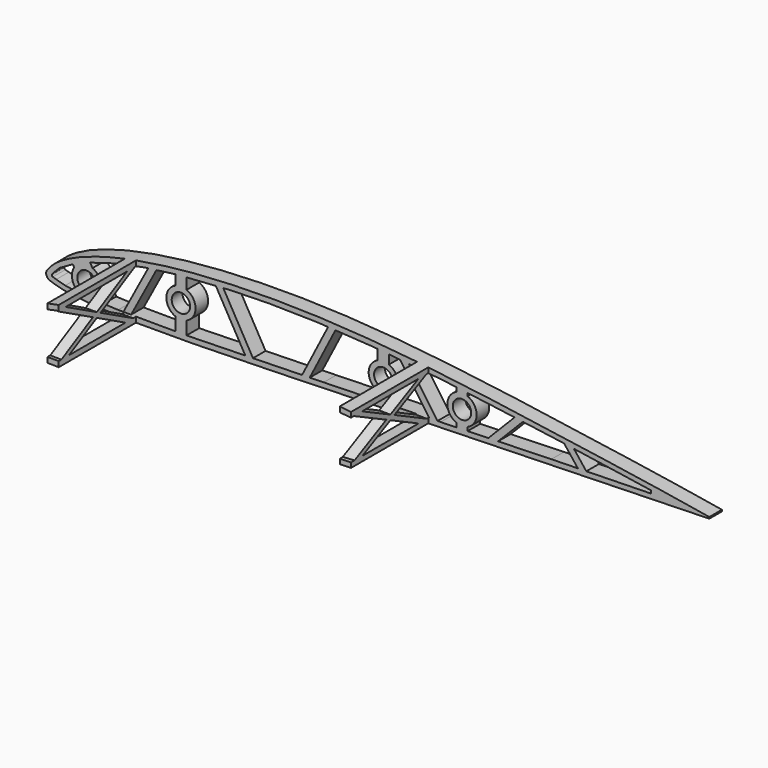
from build123d import *

# Parameters (mm, degrees)
PAD_DEPTH       = 49.95
POCKET002_DEPTH = 49.95
SKETCH007_W     = 89.545105
SKETCH007_H     = 96.443817
POCKET003_DEPTH = 2.5
SKETCH167_W     = 45
SKETCH167_H     = 60
SKETCH167_W_2   = 125
SKETCH167_W_3   = 130
POCKET097_DEPTH = 50
SKETCH008_R     = 4.1
PAD068_DEPTH    = 7
PAD069_DEPTH    = 5
PAD070_DEPTH    = 5
CHAMFER_SIZE    = 1


with BuildPart() as part:
    # Sketch003 → Pad (new body)
    with BuildSketch(Plane.XZ):
        with BuildLine():
            add(Edge.make_bspline(
                [(299.999063, 0.026825), (299.662766, 0.037193), (298.339429, 0.190401), (295.439956, 0.589669), (290.775356, 1.337839), (284.500044, 2.393262), (276.735212, 3.66473), (267.577355, 5.083019), (257.136483, 6.653879), (245.549215, 8.381993), (232.975291, 10.222771), (219.590016, 12.153256), (205.573823, 14.115503), (191.111579, 16.055183), (176.381713, 17.897983), (161.544489, 19.553409), (146.739309, 20.940939), (132.087536, 21.99009), (117.705275, 22.664279), (103.703346, 22.961168), (90.192549, 22.858072), (77.284675, 22.375726), (65.094168, 21.544938), (53.730431, 20.369385), (43.29002, 18.857963), (33.852484, 17.043697), (25.485501, 14.967735), (18.252292, 12.67281), (12.179436, 10.224412), (7.338355, 7.689021), (3.623023, 5.152403), (1.3546, 2.748114), (-0.314638, 0.590402), (0.575789, -1.804065), (3.482069, -2.72942), (7.386052, -3.91761), (13.030922, -4.754284), (20.096342, -5.463024), (28.645402, -5.933379), (38.56853, -6.201185), (49.790194, -6.284208), (62.196701, -6.193111), (75.660953, -5.967607), (90.034637, -5.629522), (105.153445, -5.226063), (120.83724, -4.775199), (136.895942, -4.296045), (153.13493, -3.818601), (169.356828, -3.345106), (185.36574, -2.889379), (200.968742, -2.465331), (215.974941, -2.074889), (230.201502, -1.715375), (243.47905, -1.394255), (255.639348, -1.103787), (266.55871, -0.849968), (276.034544, -0.603524), (284.209012, -0.340437), (290.324953, -0.117215), (295.955653, 0.018504), (297.364702, 0.013759), (300.343856, 0.01512), (300.000055, 0.026794), (299.999063, 0.026825)],
                knots=[0, 0, 0, 0, 1.017748, 3.99659, 8.779341, 15.189917, 23.087031, 32.383824, 42.990765, 54.76218, 67.530065, 81.114584, 95.333435, 109.988542, 124.889458, 139.866624, 154.774633, 169.496697, 183.930349, 197.964304, 211.506735, 224.45797, 236.709214, 248.156653, 258.723012, 268.346769, 276.97692, 284.567784, 291.102108, 296.573756, 300.992679, 304.39163, 306.761357, 308.43213, 311.131254, 315.298227, 320.951765, 328.080828, 336.654655, 346.609821, 357.866231, 370.316475, 383.83025, 398.264023, 413.449345, 429.202773, 445.334827, 461.646891, 477.940787, 494.021253, 509.693044, 524.767168, 539.054704, 552.387642, 564.607107, 575.560217, 585.109622, 593.180747, 599.700326, 604.53767, 607.540683, 608.560842, 608.563842, 608.563842, 608.563842, 608.563842], degree=3))
        make_face()
    extrude(amount=PAD_DEPTH)

    # Sketch006 (on Face3 of Pad) → Pocket002 (cut)
    with BuildSketch(Plane.XZ.offset(49.95)):
        with BuildLine():
            Line((2.713263, 0.775372), (3.386703, 1.523026))
            Line((3.386703, 1.523026), (5.993214, 4.179621))
            Line((5.993214, 4.179621), (11.230826, 7.180706))
            Line((11.230826, 7.180706), (18.928726, 10.492708))
            Line((18.928726, 10.492708), (30.015602, 13.804502))
            Line((30.015602, 13.804502), (43.705284, 16.658491))
            Line((43.705284, 16.658491), (58.37534, 18.58366))
            Line((58.37534, 18.58366), (81.932846, 20.199753))
            Line((81.932846, 20.199753), (99.115959, 20.581533))
            Line((99.115959, 20.581533), (120.506348, 20.199753))
            Line((120.506348, 20.199753), (145.772324, 18.655943))
            Line((145.772324, 18.655943), (175.747543, 15.772772))
            Line((175.747543, 15.772772), (200.435547, 12.569891))
            Line((200.435547, 12.569891), (229.384109, 8.602522))
            Line((229.384109, 8.602522), (252.135086, 5.213018))
            Line((252.135086, 5.213018), (269.069916, 2.671427))
            Line((269.069916, 2.671427), (269.069916, 1.39956))
            Line((269.069916, 1.39956), (224.761032, 0.436598))
            Line((224.761032, 0.436598), (175.486649, -1.027315))
            Line((175.486649, -1.027315), (123.47789, -2.412929))
            Line((123.47789, -2.412929), (62.077515, -3.876549))
            Line((62.077515, -3.876549), (32.052879, -3.760909))
            Line((32.052879, -3.760909), (18.887957, -3.18288))
            Line((18.887957, -3.18288), (12.728564, -2.489715))
            Line((12.728564, -2.489715), (8.493419, -1.872198))
            Line((8.493419, -1.872198), (4.562357, -0.768246))
            Line((4.562357, -0.768246), (3.013953, -0.301296))
            ThreePointArc((2.713263, 0.775372), (2.567567, 0.15436), (3.013953, -0.301296))
        make_face()
    extrude(amount=-POCKET002_DEPTH, mode=Mode.SUBTRACT)

    # Sketch007 → Pocket003 (cut, symmetric)
    with BuildSketch(Plane.XY):
        with Locations((339.772552, -30.852761)):
            Rectangle(SKETCH007_W, SKETCH007_H)
    extrude(amount=POCKET003_DEPTH, both=True, mode=Mode.SUBTRACT)

    # Sketch167 → Pocket097 (cut, symmetric)
    with BuildSketch(Plane.XY):
        with Locations((12.5, -37)):
            Rectangle(SKETCH167_W, SKETCH167_H)
        with Locations((102.5, -37)):
            Rectangle(SKETCH167_W_2, SKETCH167_H)
        with Locations((235, -37)):
            Rectangle(SKETCH167_W_3, SKETCH167_H)
    extrude(amount=POCKET097_DEPTH, both=True, mode=Mode.SUBTRACT)

    # Sketch008 (on Face16 of Pocket097) → Pad068 (join)
    with BuildSketch(Plane.XZ.offset(7)):
        Polygon((45.883972, 17.721869), (33.929979, -4.654965), (37.331221, -4.654965), (49.864502, 18.806244), align=None)
        with BuildLine():
            ThreePointArc((12.49229, 6.45183), (11.877033, 0.818423), (15.915785, -3.156789))
            Line((15.915785, -3.156789), (16.615922, -4.582716))
            Line((16.615922, -4.582716), (26.093039, -4.582716))
            Line((23.927186, 0.331954), (26.093039, -4.582716))
            ThreePointArc((23.927186, 0.331954), (24.083233, 5.290038), (20.696327, 8.914374))
            Line((20.696327, 8.914374), (19.191151, 11.361285))
            Line((11.725203, 8.211095), (19.191151, 11.361285))
            Line((12.49229, 6.45183), (11.725203, 8.211095))
        make_face()
        with Locations((18, 3)):
            Circle(SKETCH008_R, mode=Mode.SUBTRACT)
        Polygon((74.837349, 20.968384), (89.206329, -4.249731), (92.659144, -4.249731), (78.184032, 21.154647), align=None)
        Polygon((113.371621, -3.617416), (125.992361, 20.986459), (129.33754, 20.934824), (116.743287, -3.617416), align=None)
        Polygon((156.489991, 19.012594), (171.223801, -2.187052), (175.064011, -2.455857), (160.385949, 18.663577), align=None)
        Polygon((195.991472, -1.145031), (209.190294, 12.320477), (213.439896, 12.370226), (200.19231, -1.145031), align=None)
        Polygon((229.837707, 9.194464), (237.095519, 0), (240.917549, 0), (234.226173, 8.476883), align=None)
        with BuildLine():
            ThreePointArc((57.5, 14), (53.5, 8), (57.5, 2))
            Line((57.5, 2), (57.5, -4.905906))
            Line((57.5, -4.905906), (62.5, -4.905906))
            Line((62.5, -4.905906), (62.5, 2))
            ThreePointArc((62.5, 2), (66.5, 8), (62.5, 14))
            Line((62.5, 14), (62.5, 20.034189))
            Line((62.5, 20.034189), (57.5, 19.556065))
            Line((57.5, 14), (57.5, 19.556065))
        make_face()
        with Locations((60, 8)):
            Circle(SKETCH008_R, mode=Mode.SUBTRACT)
        with BuildLine():
            ThreePointArc((147.5, 14), (143.5, 8), (147.5, 2))
            Line((147.5, 2), (147.5, -2.562403))
            Line((147.5, -2.562403), (152.5, -2.562403))
            Line((152.5, -2.562403), (152.5, 2))
            ThreePointArc((152.5, 2), (156.5, 8), (152.5, 14))
            Line((152.5, 18.960966), (152.5, 14))
            Line((147.5, 19.241402), (152.5, 18.960966))
            Line((147.5, 14), (147.5, 19.241402))
        make_face()
        with Locations((150, 8)):
            Circle(SKETCH008_R, mode=Mode.SUBTRACT)
        with BuildLine():
            ThreePointArc((182.5, 13), (178.5, 7), (182.5, 1))
            Line((182.5, 1), (182.5, -1.799935))
            Line((182.5, -1.799935), (187.5, -1.799935))
            Line((187.5, -1.799935), (187.5, 1))
            ThreePointArc((187.5, 1), (191.5, 7), (187.5, 13))
            Line((187.5, 15.534908), (187.5, 13))
            Line((182.5, 15.936711), (187.5, 15.534908))
            Line((182.5, 13), (182.5, 15.936711))
        make_face()
        with Locations((185, 7)):
            Circle(SKETCH008_R, mode=Mode.SUBTRACT)
    extrude(amount=-PAD068_DEPTH)

    # Sketch168 (on Face17 of Pad068) → Pad069 (join)
    with BuildSketch(Plane(origin=(170, 0, 0), x_dir=(0, 0, 1), z_dir=(1, 0, 0))):
        Polygon((-2.862424, 8.94149), (6.442989, 28.049985), (-2.259602, 45.768041), (-1.567215, 48.792519), (7.5685, 30.334935), (16.796005, 49.309713), (17.609328, 49.309713), (17.609328, 46.4118), (8.669366, 28.053752), (18.467293, 8.207807), (16.796904, 7.181463), (7.587656, 25.787609), (-1.340204, 7.499282), (-2.532652, 7.499282), align=None)
    extrude(amount=-PAD069_DEPTH)

    # Sketch169 (on Face22 of Pad069) → Pad070 (join)
    with BuildSketch(Plane(origin=(35, 0, 0), x_dir=(0, 0, -1), z_dir=(-1, 0, 0))):
        Polygon((-17.041541, 48.311144), (-17.041541, 49.789161), (-15.55834, 49.789161), (5.930288, 8.817383), (5.930288, 7.168498), (4.536703, 7.168498), align=None)
        Polygon((-17.112379, 7.288354), (-16.112644, 7.288354), (5.857902, 48.072935), (5.977349, 49.772485), (4.50171, 49.772485), (-17.112379, 9.649605), align=None)
    extrude(amount=-PAD070_DEPTH)

    # Chamfer
    chamfer_edges = [part.edges().sort_by_distance(p)[0] for p in [
        (145.9, 0, 8),
        (55.9, 0, 8),
    ]]
    chamfer(chamfer_edges, length=CHAMFER_SIZE)


solid = part.part
